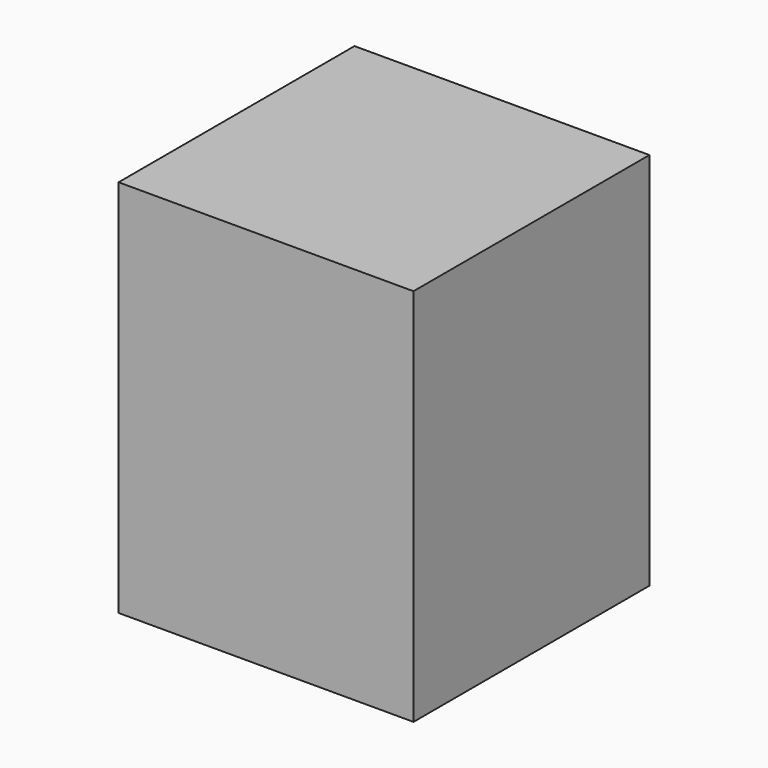
from build123d import *

# Parameters (mm, degrees)
F0_W     = 177.8
F0_H     = 228.6
F1_DEPTH = 177.8
F2_W     = 167.639996
F2_H     = 218.439996
F3_DEPTH = 172.72


with BuildPart() as f1:
    # F0 (on Front) → F1 (new body)
    with BuildSketch(Plane.XZ):
        Rectangle(F0_W, F0_H)
    extrude(amount=F1_DEPTH)

    # F2 (on face) → F3 (cut)
    with BuildSketch(Plane(origin=(0, 0, 0), x_dir=(-1, 0, 0), z_dir=(0, 1, 0))):
        Rectangle(F2_W, F2_H)
    extrude(amount=-F3_DEPTH, mode=Mode.SUBTRACT)


solid = f1.part
